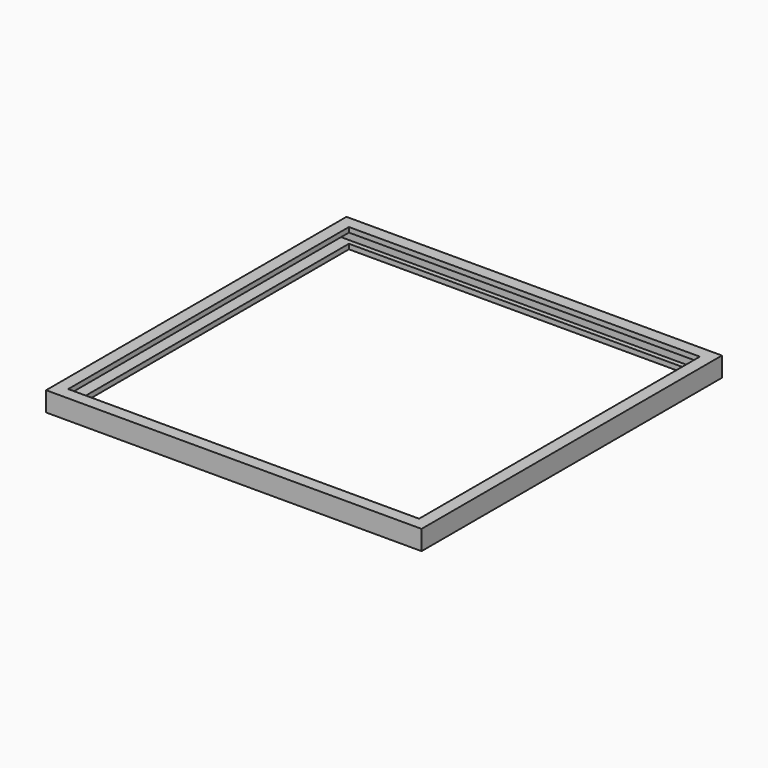
from build123d import *

# Parameters (mm, degrees)
F0_W     = 153
F0_H     = 153
F0_W_2   = 143
F0_H_2   = 143
F1_DEPTH = 8
F2_W     = 147
F2_H     = 4
F3_DEPTH = 150


with BuildPart() as f1:
    # F0 (on Top) → F1 (new body)
    with BuildSketch(Plane.XY):
        with Locations((2.170972, -7.338189)):
            Rectangle(F0_W, F0_H)
        with Locations((2.170972, -7.338189)):
            Rectangle(F0_W_2, F0_H_2, mode=Mode.SUBTRACT)
    extrude(amount=F1_DEPTH)

    # F2 (on face) → F3 (cut)
    with BuildSketch(Plane(origin=(-74.329028, 0, 0), x_dir=(0, -1, 0), z_dir=(-1, 0, 0))):
        with Locations((7.338189, 4)):
            Rectangle(F2_W, F2_H)
    extrude(amount=-F3_DEPTH, mode=Mode.SUBTRACT)


solid = f1.part
